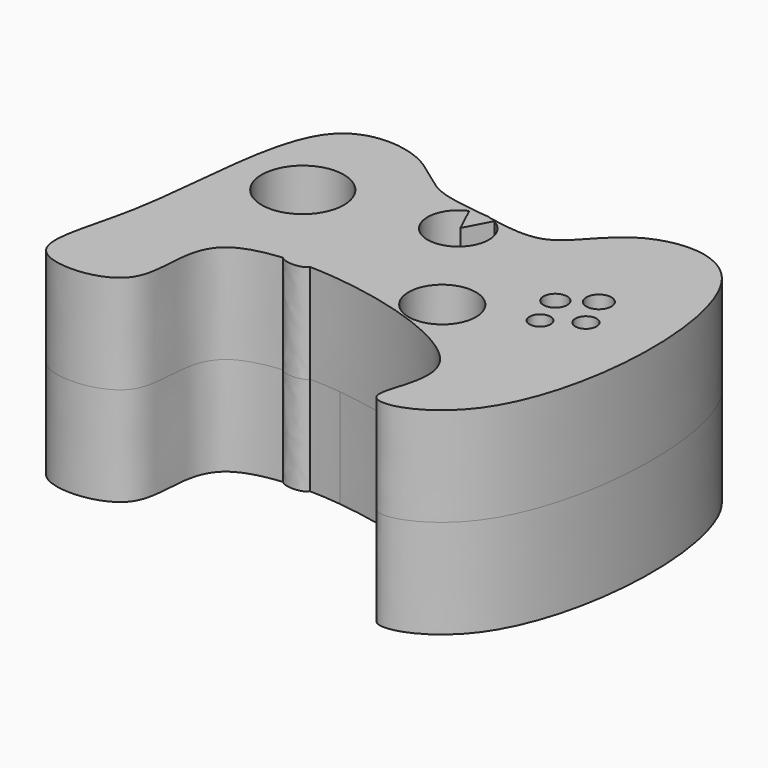
from build123d import *

# Parameters (mm, degrees)
F0_R        = 8.662201363
F0_R_2      = 10.5691561384
F0_R_3      = 2.6984055017
F0_R_4      = 3.0389014198
F0_R_5      = 2.7473225855
F0_R_6      = 3.2232427352
F1_DEPTH    = 25.4
F3_DEPTH    = 25.4
F1_FACE_R   = 8.662201363
F1_FACE_R_2 = 2.6984055017
F1_FACE_R_3 = 2.7473225855
F1_FACE_R_4 = 3.0389014198
F1_FACE_R_5 = 3.2232427352
F4_DEPTH    = 25.4


with BuildPart() as f1:
    # F0 (on Top) → F1 (new body)
    with BuildSketch(Plane.XY):
        with BuildLine():
            ThreePointArc((2.6619614286, 7.4345067202), (1.3508945801, 7.7802964373), (0, 7.8967036679))
            add(Edge.make_bspline(
                [(0, 7.8967036679), (0.8739635903, 7.7555733186), (1.7642174923, 7.5960611727), (2.6619614286, 7.4345067202)],
                knots=[0.2641372822, 0.2641372822, 0.2641372822, 0.2641372822, 0.2727951023, 0.2727951023, 0.2727951023, 0.2727951023], degree=3))
        make_face()
        with BuildLine():
            add(Edge.make_bspline(
                [(-12.8495357692, -31.6730619381), (-15.2003391192, -31.6308184782), (-17.4537357319, -31.7023656235), (-19.5553285833, -31.8970333649)],
                knots=[0.7678583091, 0.7678583091, 0.7678583091, 0.7678583091, 0.7781468609, 0.7781468609, 0.7781468609, 0.7781468609], degree=3))
            add(Edge.make_bspline(
                [(-19.5553285781, -31.8970333645), (-18.2168939856, -33.3727319686), (-13.6586464223, -33.2923071287), (-12.8495357644, -31.6730619382)],
                knots=[0.336979453, 0.336979453, 0.336979453, 0.336979453, 0.4189256786, 0.4189256786, 0.4189256786, 0.4189256786], degree=3))
        make_face()
        with BuildLine():
            add(Edge.make_bspline(
                [(-20.5612294376, -23.0941344053), (-21.4794909722, -24.5031640961), (-33.6910205727, -19.461421147), (-32.0417244255, -29.0365306226), (-17.9951315905, -25.0315154696), (-20.6451305642, -30.6954660419), (-19.5553285781, -31.8970333645)],
                knots=[0, 0, 0, 0, 0.1051236694, 0.1677554096, 0.2702558641, 0.336979453, 0.336979453, 0.336979453, 0.336979453], degree=3))
            add(Edge.make_bspline(
                [(-12.8495357692, -31.6730619381), (-15.2003391192, -31.6308184782), (-17.4537357319, -31.7023656235), (-19.5553285833, -31.8970333649)],
                knots=[0.7678583091, 0.7678583091, 0.7678583091, 0.7678583091, 0.7781468609, 0.7781468609, 0.7781468609, 0.7781468609], degree=3))
            add(Edge.make_bspline(
                [(-12.8495357644, -31.6730619382), (-12.2134252392, -30.4000359331), (-16.055868286, -25.3166022998), (-4.9648169652, -30.2709619485), (-4.5248554697, -19.7618954567), (-16.6055231765, -24.991289651), (-9.6030406944, -13.17537676), (-29.3909363547, -11.4847774091), (-19.7257300953, -21.812099456), (-20.5612294376, -23.0941344053)],
                knots=[0.4189256786, 0.4189256786, 0.4189256786, 0.4189256786, 0.4833505581, 0.5661727466, 0.6374387628, 0.7220789736, 0.8049402809, 0.9043510445, 1, 1, 1, 1], degree=3))
        make_face()
        with BuildLine():
            add(Edge.make_bspline(
                [(0, 7.8967036679), (0.8739635903, 7.7555733186), (1.7642174923, 7.5960611727), (2.6619614286, 7.4345067202)],
                knots=[0.2641372822, 0.2641372822, 0.2641372822, 0.2641372822, 0.2727951023, 0.2727951023, 0.2727951023, 0.2727951023], degree=3))
            ThreePointArc((0, 7.8967036679), (-1.5339911907, 7.746276515), (-3.0095392797, 7.3007261381))
            Line((-3.0095392797, 7.3007261381), (0.2147444548, 0.4083655772))
            Line((0.2147444548, 0.4083655772), (3.6753845925, 6.9892400815))
            ThreePointArc((3.6753845925, 6.9892400815), (3.176484573, 7.229652452), (2.6619614286, 7.4345067202))
        make_face()
        with BuildLine():
            add(Edge.make_bspline(
                [(-56.0218989849, -34.1197215021), (-52.7312458579, -16.3754611509), (-53.9979835196, 22.6080890667), (-24.4960441742, 21.1224346107), (-14.5591666686, 9.1182619902), (-5.2056518054, 8.737328456), (0, 7.8967036679)],
                knots=[0, 0, 0, 0, 0.0990798299, 0.1599055051, 0.2125680893, 0.2641372822, 0.2641372822, 0.2641372822, 0.2641372822], degree=3))
            add(Edge.make_bspline(
                [(-19.5553285833, -31.8970333649), (-24.3924436753, -32.3450888811), (-39.78440629, -36.5444427943), (-29.7437802898, -62.3150320148), (-66.5507445031, -64.209735428), (-58.3530454719, -46.6900133516), (-56.0218989849, -34.1197215021)],
                knots=[0.7781468609, 0.7781468609, 0.7781468609, 0.7781468609, 0.8018274275, 0.8685255091, 0.9298104089, 1, 1, 1, 1], degree=3))
            add(Edge.make_bspline(
                [(-20.5612294376, -23.0941344053), (-21.4794909722, -24.5031640961), (-33.6910205727, -19.461421147), (-32.0417244255, -29.0365306226), (-17.9951315905, -25.0315154696), (-20.6451305642, -30.6954660419), (-19.5553285781, -31.8970333645)],
                knots=[0, 0, 0, 0, 0.1051236694, 0.1677554096, 0.2702558641, 0.336979453, 0.336979453, 0.336979453, 0.336979453], degree=3))
            add(Edge.make_bspline(
                [(-12.8495357644, -31.6730619382), (-12.2134252392, -30.4000359331), (-16.055868286, -25.3166022998), (-4.9648169652, -30.2709619485), (-4.5248554697, -19.7618954567), (-16.6055231765, -24.991289651), (-9.6030406944, -13.17537676), (-29.3909363547, -11.4847774091), (-19.7257300953, -21.812099456), (-20.5612294376, -23.0941344053)],
                knots=[0.4189256786, 0.4189256786, 0.4189256786, 0.4189256786, 0.4833505581, 0.5661727466, 0.6374387628, 0.7220789736, 0.8049402809, 0.9043510445, 1, 1, 1, 1], degree=3))
            add(Edge.make_bspline(
                [(2.6619614286, 7.4345067202), (7.5983224122, 6.5461786969), (19.1253023931, 4.424951293), (27.9346587377, 22.6791014065), (67.0530313994, 26.1512760888), (64.9220870413, -62.8239339374), (24.3126179916, -73.1502813819), (46.3411638863, -44.1025890995), (4.931929263, -31.9925912623), (-12.8495357692, -31.6730619381)],
                knots=[0.2727951023, 0.2727951023, 0.2727951023, 0.2727951023, 0.3204012444, 0.3790848583, 0.4473985241, 0.5662784499, 0.6298732105, 0.6900357534, 0.7678583091, 0.7678583091, 0.7678583091, 0.7678583091], degree=3))
            ThreePointArc((2.6619614286, 7.4345067202), (3.176484573, 7.229652452), (3.6753845925, 6.9892400815))
            ThreePointArc((3.6753845925, 6.9892400815), (6.7594878435, 4.0825547043), (7.8967036679, 0))
            ThreePointArc((7.8967036679, 0), (6.7594878435, -4.0825547043), (3.6753845925, -6.9892400815))
            ThreePointArc((3.6753845925, -6.9892400815), (0, -7.8967036679), (-3.6753845925, -6.9892400815))
            ThreePointArc((-3.6753845925, -6.9892400815), (-7.8881452467, 0.3675505217), (-3.0095392797, 7.3007261381))
            ThreePointArc((-3.0095392797, 7.3007261381), (-1.5339911907, 7.746276515), (0, 7.8967036679))
        make_face()
        with Locations((18.1773174554, -27.8619546443)):
            Circle(F0_R, mode=Mode.SUBTRACT)
        with Locations((-34.8646938801, -6.4067598432)):
            Circle(F0_R_2, mode=Mode.SUBTRACT)
        with Locations((37.8445833921, -21.008213982)):
            Circle(F0_R_3, mode=Mode.SUBTRACT)
        with Locations((34.8646938801, -12.3665360734)):
            Circle(F0_R_4, mode=Mode.SUBTRACT)
        with Locations((45.592289418, -15.942402184)):
            Circle(F0_R_5, mode=Mode.SUBTRACT)
        with Locations((42.0164242387, -7.3007261381)):
            Circle(F0_R_6, mode=Mode.SUBTRACT)
    extrude(amount=F1_DEPTH)

    # F2 (on face) → F3 (join)
    with BuildSketch(Plane(origin=(0, 0, 0), x_dir=(1, 0, 0), z_dir=(0, 0, -1))):
        with BuildLine():
            Line((-8.30411213, 25.8785167806), (-4.5694535774, 32.2405673817))
            add(Edge.make_bspline(
                [(-4.5694535773, 32.2405673817), (-7.4017087737, 31.9145699772), (-10.1880496104, 31.7208883052), (-12.8495357692, 31.6730619381)],
                knots=[0.7562100195, 0.7562100195, 0.7562100195, 0.7562100195, 0.7678583091, 0.7678583091, 0.7678583091, 0.7678583091], degree=3))
            add(Edge.make_bspline(
                [(-19.5553285781, 31.8970333645), (-18.2168939856, 33.3727319686), (-13.6586464223, 33.2923071287), (-12.8495357644, 31.6730619382)],
                knots=[1.336979453, 1.336979453, 1.336979453, 1.336979453, 1.4189256786, 1.4189256786, 1.4189256786, 1.4189256786], degree=3))
            add(Edge.make_bspline(
                [(-52.8838453637, 8.4309911764), (-53.8944542302, 16.9764404054), (-55.5917021064, 40.788605147), (-66.5507445031, 64.209735428), (-29.7437802898, 62.3150320148), (-39.78440629, 36.5444427943), (-24.3924436753, 32.3450888811), (-19.5553285833, 31.8970333649)],
                knots=[0.2198509267, 0.2198509267, 0.2198509267, 0.2198509267, 0.2641372822, 0.3343268733, 0.3956117731, 0.4623098547, 0.4859904212, 0.4859904212, 0.4859904212, 0.4859904212], degree=3))
            Line((-52.8838453637, 8.4309911764), (-47.1364098889, 7.5222018516))
            Line((-47.1364098889, 7.5222018516), (-45.3443784489, 7.7790837181))
            ThreePointArc((-45.3443784489, 7.7790837181), (-37.4411351562, 16.6570774885), (-26.2793718503, 12.5711176463))
            Line((-26.2793718503, 12.5711176463), (-19.1920831027, 15.9213315597))
            Line((-19.1920831027, 15.9213315597), (-8.30411213, 25.8785167806))
        make_face()
        with BuildLine():
            Line((-32.5312639409, 9.6158019236), (-26.2793718503, 12.5711176463))
            ThreePointArc((-26.2793718503, 12.5711176463), (-37.4411351562, 16.6570774885), (-45.3443784489, 7.7790837181))
            Line((-45.3443784489, 7.7790837181), (-32.5312639409, 9.6158019236))
        make_face()
    extrude(amount=F3_DEPTH)

    # F1_face (on face) → F4 (join)
    with BuildSketch(Plane(origin=(5.9823666719, -18.1132282803, 0), x_dir=(1, 0, 0), z_dir=(0, 0, -1))):
        with BuildLine():
            add(Edge.make_bspline(
                [(-3.3204052433, -25.5477350004), (1.6159557403, -24.6594069772), (13.1429357212, -22.5381795733), (21.9522920659, -40.7923296868), (61.0706647275, -44.2645043691), (58.9397203694, 44.7107056572), (18.3302513197, 55.0370531016), (39.0858779665, 27.6678813531), (5.5383024037, 15.9793396662), (-10.5518202492, 14.1273391014)],
                knots=[0.2727951023, 0.2727951023, 0.2727951023, 0.2727951023, 0.3204012444, 0.3790848583, 0.4473985241, 0.5662784499, 0.6298732105, 0.6900357534, 0.7562100195, 0.7562100195, 0.7562100195, 0.7562100195], degree=3))
            Line((-10.5518202492, 14.1273391014), (-14.2864788019, 7.7652885003))
            Line((-14.2864788019, 7.7652885003), (-25.1744497746, -2.1918967205))
            Line((-25.1744497746, -2.1918967205), (-32.2617385222, -5.542110634))
            ThreePointArc((-32.2617385222, -5.542110634), (-30.7860797223, -8.4686101598), (-30.2779044135, -11.706468437))
            ThreePointArc((-30.2779044135, -11.706468437), (-41.5346792653, -22.2532329638), (-51.3267451207, -10.3341445621))
            Line((-51.3267451207, -10.3341445621), (-53.1187765608, -10.5910264287))
            Line((-53.1187765608, -10.5910264287), (-58.8662120356, -9.6822371039))
            add(Edge.make_bspline(
                [(-5.9823666719, -26.0099319482), (-11.1880184773, -26.8505567363), (-20.5415333405, -27.2314902705), (-30.4784108461, -39.235662891), (-53.8339272884, -40.4117966586), (-57.6158320812, -20.2551291203), (-58.8662120356, -9.6822371039)],
                knots=[0, 0, 0, 0, 0.0515691928, 0.104231777, 0.1650574522, 0.2198509267, 0.2198509267, 0.2198509267, 0.2198509267], degree=3))
            ThreePointArc((-5.9823666719, -26.0099319482), (-4.6314720918, -25.8935247176), (-3.3204052433, -25.5477350004))
        make_face()
        with Locations((12.1949507835, 9.748726364)):
            Circle(F1_FACE_R, mode=Mode.SUBTRACT)
        with Locations((31.8622167203, 2.8949857017)):
            Circle(F1_FACE_R_2, mode=Mode.SUBTRACT)
        with Locations((39.6099227461, -2.1708260963)):
            Circle(F1_FACE_R_3, mode=Mode.SUBTRACT)
        with BuildLine():
            Line((-5.7676222171, -18.5215938575), (-8.9919059516, -25.4139544183))
            ThreePointArc((-8.9919059516, -25.4139544183), (-6.3499171936, -10.2250830336), (-2.3069820794, -25.1024683618))
            Line((-2.3069820794, -25.1024683618), (-5.7676222171, -18.5215938575))
        make_face(mode=Mode.SUBTRACT)
        with Locations((28.8823272082, -5.7466922069)):
            Circle(F1_FACE_R_4, mode=Mode.SUBTRACT)
        with Locations((36.0340575668, -10.8125021422)):
            Circle(F1_FACE_R_5, mode=Mode.SUBTRACT)
    extrude(amount=F4_DEPTH)


solid = f1.part
